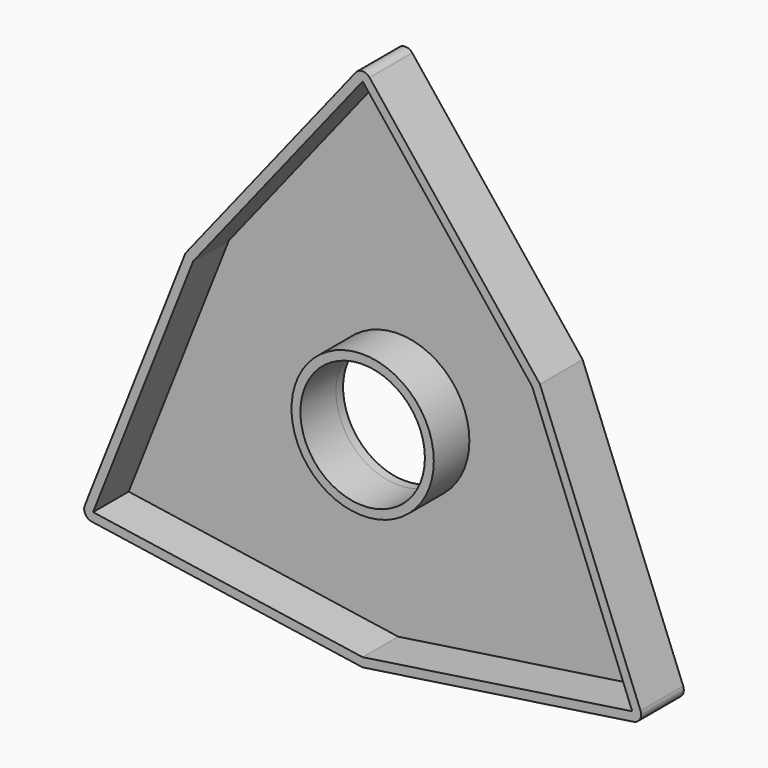
from build123d import *

# Parameters (mm, degrees)
F0_R     = 8
F0_R_2   = 7
F1_DEPTH = 1
F2_DEPTH = 5


with BuildPart() as f1:
    # F0 (on Front) → F1 (new body)
    with BuildSketch(Plane.XZ):
        with BuildLine():
            Line((-19.928076, 11.50548), (-31.240951, -17.132598))
            ThreePointArc((-31.240951, -17.132598), (-31.176915, -18), (-30.457741, -18.489158))
            Line((-30.457741, -18.489158), (0, -23.01096))
            Line((0, -23.01096), (30.457741, -18.489158))
            ThreePointArc((30.457741, -18.489158), (31.176915, -18), (31.240951, -17.132598))
            Line((31.240951, -17.132598), (19.928076, 11.50548))
            Line((19.928076, 11.50548), (0.78321, 35.621757))
            ThreePointArc((0.78321, 35.621757), (0, 36), (-0.78321, 35.621757))
            Line((-0.78321, 35.621757), (-19.928076, 11.50548))
        make_face()
        Polygon((0, -22), (-30.310889, -17.5), (-19.052559, 11), (0, 35), (19.052559, 11), (30.310889, -17.5), align=None, mode=Mode.SUBTRACT)
        Polygon((-19.052559, 11), (-30.310889, -17.5), (0, -22), (30.310889, -17.5), (19.052559, 11), (0, 35), align=None)
        Circle(F0_R, mode=Mode.SUBTRACT)
        Circle(F0_R)
        Circle(F0_R_2, mode=Mode.SUBTRACT)
    extrude(amount=-F1_DEPTH)

    # F0 (on Front) → F2 (join)
    with BuildSketch(Plane.XZ):
        with BuildLine():
            Line((-19.928076, 11.50548), (-31.240951, -17.132598))
            ThreePointArc((-31.240951, -17.132598), (-31.176915, -18), (-30.457741, -18.489158))
            Line((-30.457741, -18.489158), (0, -23.01096))
            Line((0, -23.01096), (30.457741, -18.489158))
            ThreePointArc((30.457741, -18.489158), (31.176915, -18), (31.240951, -17.132598))
            Line((31.240951, -17.132598), (19.928076, 11.50548))
            Line((19.928076, 11.50548), (0.78321, 35.621757))
            ThreePointArc((0.78321, 35.621757), (0, 36), (-0.78321, 35.621757))
            Line((-0.78321, 35.621757), (-19.928076, 11.50548))
        make_face()
        Polygon((0, -22), (-30.310889, -17.5), (-19.052559, 11), (0, 35), (19.052559, 11), (30.310889, -17.5), align=None, mode=Mode.SUBTRACT)
        Circle(F0_R)
        Circle(F0_R_2, mode=Mode.SUBTRACT)
    extrude(amount=F2_DEPTH)


solid = f1.part
